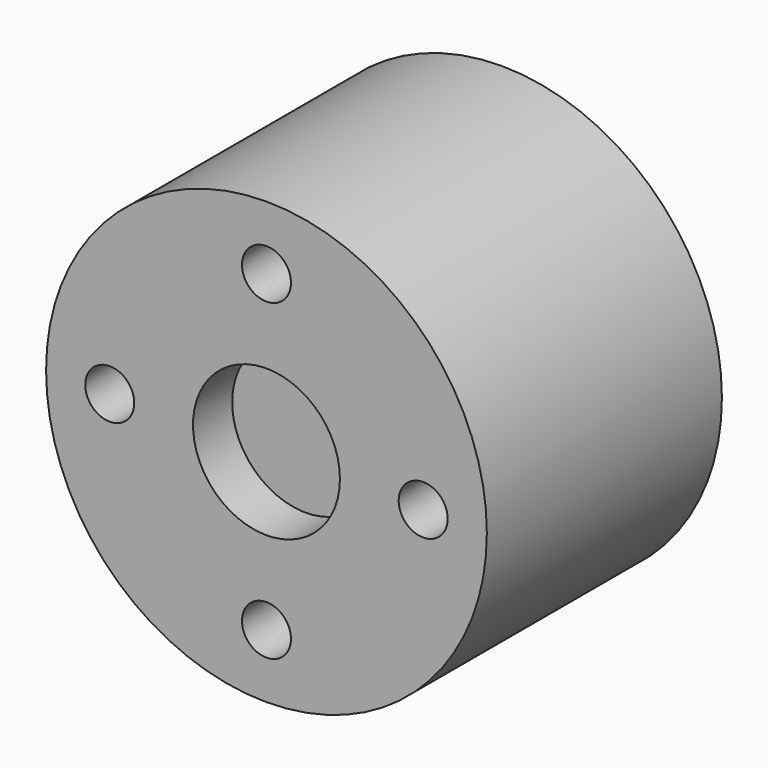
from build123d import *

# Parameters (mm, degrees)
F0_R     = 22.5
F1_DEPTH = 30
F2_R     = 7.5
F3_DEPTH = 5
F4_R     = 2.5
F5_DEPTH = 10
F6_R     = 13.475
F7_DEPTH = 15


with BuildPart() as f1:
    # F0 (on Front) → F1 (new body)
    with BuildSketch(Plane.XZ):
        Circle(F0_R)
    extrude(amount=F1_DEPTH)

    # F2 (on face) → F3 (cut)
    with BuildSketch(Plane.XZ.offset(30)):
        Circle(F2_R)
    extrude(amount=-F3_DEPTH, mode=Mode.SUBTRACT)

    # F4 (on face) → F5 (cut)
    with BuildSketch(Plane.XZ.offset(30)):
        with Locations((-16, 0)):
            Circle(F4_R)
        with Locations((0, 16)):
            Circle(F4_R)
        with Locations((16, 0)):
            Circle(F4_R)
        with Locations((0, -16)):
            Circle(F4_R)
    extrude(amount=-F5_DEPTH, mode=Mode.SUBTRACT)

    # F6 (on face) → F7 (cut)
    with BuildSketch(Plane(origin=(0, 0, 0), x_dir=(-1, 0, 0), z_dir=(0, 1, 0))):
        Circle(F6_R)
    extrude(amount=-F7_DEPTH, mode=Mode.SUBTRACT)


solid = f1.part
